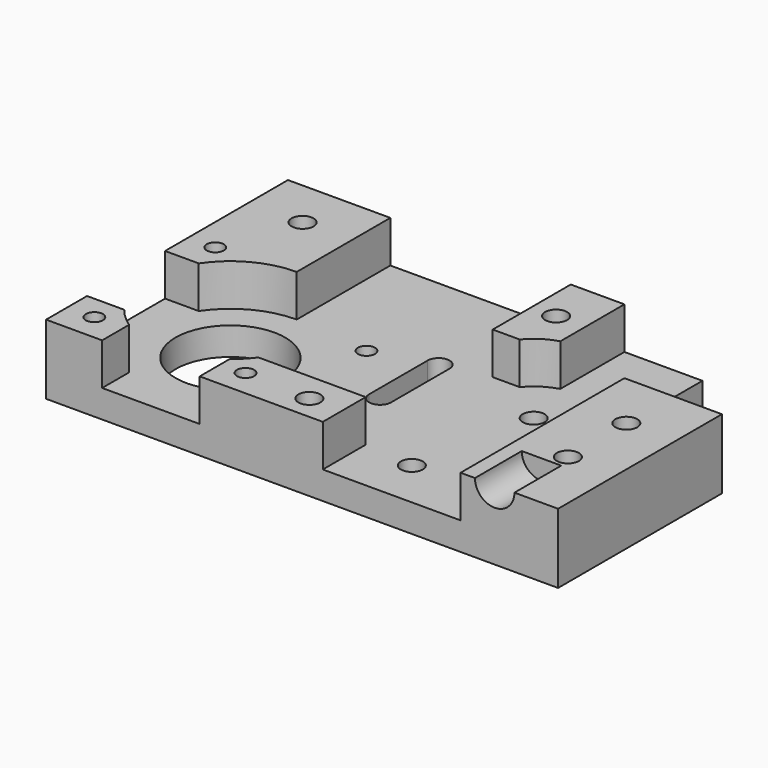
from build123d import *

# Parameters (mm, degrees)
SKETCH_R        = 2.25
SKETCH_R_2      = 11.25
SKETCH_R_3      = 1.75
PAD_DEPTH       = 14.3
POCKET_DEPTH    = 8.6
SKETCH004_R     = 2.25
POCKET003_DEPTH = 10
SKETCH005_R     = 4.05
POCKET004_DEPTH = 12
SKETCH006_R     = 3.75
POCKET005_DEPTH = 9.2


with BuildPart() as pocket005:
    # Sketch → Pad (new body)
    with BuildSketch(Plane.XY):
        Polygon((0, 0), (105, 0), (105, 62), (20, 62), (20, 42), (0, 42), align=None)
        with Locations((38, 10)):
            Circle(SKETCH_R, mode=Mode.SUBTRACT)
        with Locations((33, 35)):
            Circle(SKETCH_R, mode=Mode.SUBTRACT)
        with Locations((84, 21)):
            Circle(SKETCH_R_2, mode=Mode.SUBTRACT)
        with Locations((68.5, 36.5)):
            Circle(SKETCH_R_3, mode=Mode.SUBTRACT)
        with Locations((99.5, 36.5)):
            Circle(SKETCH_R_3, mode=Mode.SUBTRACT)
        with Locations((68.5, 5.5)):
            Circle(SKETCH_R_3, mode=Mode.SUBTRACT)
        with Locations((99.5, 5.5)):
            Circle(SKETCH_R_3, mode=Mode.SUBTRACT)
        with Locations((10, 30)):
            Circle(SKETCH_R, mode=Mode.SUBTRACT)
        with Locations((10, 15)):
            Circle(SKETCH_R, mode=Mode.SUBTRACT)
        with Locations((42, 52)):
            Circle(SKETCH_R, mode=Mode.SUBTRACT)
        with Locations((94, 52)):
            Circle(SKETCH_R, mode=Mode.SUBTRACT)
        with BuildLine():
            Line((58.75, 25), (58.75, 39.999999))
            ThreePointArc((58.75, 39.999999), (56.5, 42.25), (54.25, 39.999998))
            Line((54.25, 25.000001), (54.25, 39.999998))
            ThreePointArc((54.25, 25.000001), (56.5, 22.75), (58.75, 25))
        make_face(mode=Mode.SUBTRACT)
    extrude(amount=PAD_DEPTH)

    # Sketch001 → Pocket (cut)
    with BuildSketch(Plane.XY.offset(14.3)):
        with BuildLine():
            ThreePointArc((41.485277, 42), (39.015593, 44.209375), (35.999996, 45.583005))
            Line((35.999996, 67), (35.999996, 45.583005))
            Line((20, 67), (35.999996, 67))
            Line((20, -1), (20, 67))
            Line((20, -1), (48.252269, -1))
            Line((48.252269, 11), (48.252269, -1))
            Line((48.252269, 11), (70.252269, 11))
            ThreePointArc((70.252269, 11), (71.759618, 9.202833), (73.499996, 7.630258))
            Line((73.499996, 7.630258), (73.499996, -1))
            Line((73.499996, -1), (93.499996, -1))
            Line((93.499996, -1), (93.499996, 6.902128))
            ThreePointArc((93.499996, 6.902128), (95.574295, 8.548671), (97.367695, 10.497399))
            Line((105.499996, 10.497399), (97.367695, 10.497399))
            Line((105.499996, 30.497399), (105.499996, 10.497399))
            Line((98.099621, 30.497399), (105.499996, 30.497399))
            ThreePointArc((98.099621, 30.497399), (91.98574, 36.007594), (83.999996, 38))
            Line((83.999996, 38), (83.999996, 67))
            Line((83.999996, 67), (46.999996, 67))
            Line((46.999996, 67), (46.999996, 42))
            Line((41.485277, 42), (46.999996, 42))
        make_face()
    extrude(amount=-POCKET_DEPTH, mode=Mode.SUBTRACT)

    # Sketch004 → Pocket003 (cut)
    with BuildSketch(Plane.XY.offset(14.3)):
        with Locations((55, 5)):
            Circle(SKETCH004_R)
    extrude(amount=-POCKET003_DEPTH, mode=Mode.SUBTRACT)

    # Sketch005 → Pocket004 (cut)
    with BuildSketch(Plane.XZ):
        with Locations((13, 14.3)):
            Circle(SKETCH005_R)
    extrude(amount=-POCKET004_DEPTH, mode=Mode.SUBTRACT)

    # Sketch006 → Pocket005 (cut)
    with BuildSketch(Plane(origin=(0, 0, 0), x_dir=(1, 0, 0), z_dir=(0, 0, -1))):
        with Locations((10, -15)):
            Circle(SKETCH006_R)
        with Locations((10, -30)):
            Circle(SKETCH006_R)
        with Locations((42, -52)):
            Circle(SKETCH006_R)
        with Locations((94, -52)):
            Circle(SKETCH006_R)
    extrude(amount=-POCKET005_DEPTH, mode=Mode.SUBTRACT)


with BuildPart() as part_mirroring:
    # Part__Mirroring: instance of Pocket005
    add(pocket005.part.mirror(Plane(origin=(0, 0, 0), x_dir=(0, -1, 0), z_dir=(1, 0, 0))))


solid = part_mirroring.part
